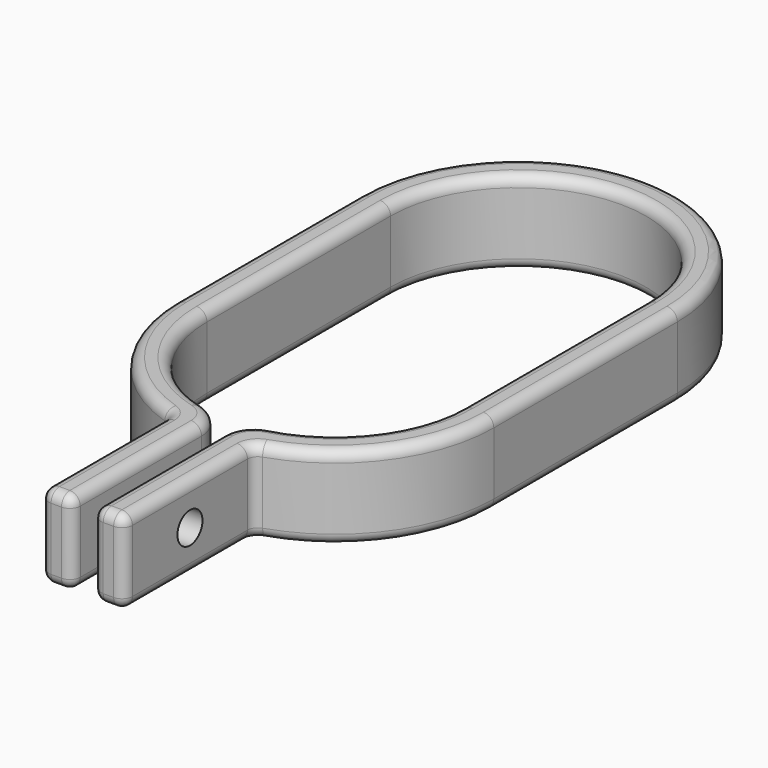
from build123d import *

# Parameters (mm, degrees)
F1_DEPTH = 8
F3_D     = 3
F3_DEPTH = 19.4
F4_R     = 1


with BuildPart() as f1:
    # F0 (on Top) → F1 (new body)
    with BuildSketch(Plane.XY):
        with BuildLine():
            ThreePointArc((-35.562271, 14.071549), (-23.312271, 26.321549), (-11.062271, 14.071549))
            Line((-11.062271, 14.071549), (-11.062271, -7.928451))
            ThreePointArc((-11.062271, -7.928451), (-13.580283, -15.368271), (-20.099156, -19.74955))
            ThreePointArc((-20.099156, -19.74955), (-21.695615, -20.822517), (-22.312271, -22.644513))
            Line((-22.312271, -22.644513), (-22.312271, -23.178451))
            Line((-22.312271, -23.178451), (-22.312271, -37.178451))
            ThreePointArc((-22.312271, -37.178451), (-22.019377, -37.885557), (-21.312271, -38.178451))
            Line((-21.312271, -38.178451), (-20.312271, -38.178451))
            ThreePointArc((-20.312271, -38.178451), (-19.605164, -37.885557), (-19.312271, -37.178451))
            Line((-19.312271, -37.178451), (-19.312271, -23.390097))
            ThreePointArc((-19.312271, -23.390097), (-19.120878, -22.801748), (-18.619963, -22.438611))
            ThreePointArc((-18.619963, -22.438611), (-10.981006, -16.900764), (-8.062271, -7.928451))
            Line((-8.062271, -7.928451), (-8.062271, 14.071549))
            ThreePointArc((-8.062271, 14.071549), (-23.312271, 29.321549), (-38.562271, 14.071549))
            Line((-38.562271, 14.071549), (-38.562271, -7.928451))
            ThreePointArc((-38.562271, -7.928451), (-35.643536, -16.900764), (-28.004578, -22.438611))
            ThreePointArc((-28.004578, -22.438611), (-27.503663, -22.801748), (-27.312271, -23.390097))
            Line((-27.312271, -23.390097), (-27.312271, -37.178451))
            ThreePointArc((-27.312271, -37.178451), (-27.019377, -37.885557), (-26.312271, -38.178451))
            Line((-26.312271, -38.178451), (-25.312271, -38.178451))
            ThreePointArc((-25.312271, -38.178451), (-24.605164, -37.885557), (-24.312271, -37.178451))
            Line((-24.312271, -37.178451), (-24.312271, -23.178451))
            Line((-24.312271, -23.178451), (-24.312271, -22.644513))
            ThreePointArc((-24.312271, -22.644513), (-24.928927, -20.822517), (-26.525385, -19.74955))
            ThreePointArc((-26.525385, -19.74955), (-33.044258, -15.368271), (-35.562271, -7.928451))
            Line((-35.562271, -7.928451), (-35.562271, 14.071549))
        make_face()
    extrude(amount=F1_DEPTH)

    # F3
    with Locations(Plane.YZ.offset(-19.312271)):
        with Locations((-30.284274, 4)):
            Hole(F3_D / 2, depth=F3_DEPTH)

    # F4
    f4_edges = [f1.edges().sort_by_distance(p)[0] for p in [
        (-38.562271, 3.071549, 8),
        (-10.981006, -16.900764, 0),
    ]]
    fillet(f4_edges, radius=F4_R)


solid = f1.part
